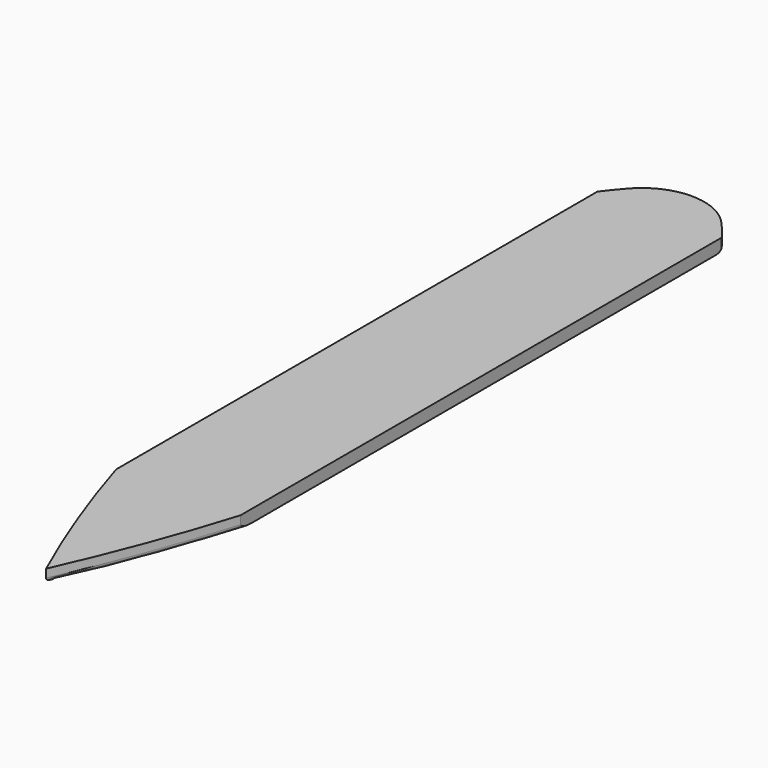
from build123d import *

# Parameters (mm, degrees)
F1_DEPTH = 15
F2_R     = 75
F3_R     = 5
F4_R     = 5


with BuildPart() as f1:
    # F0 (on Top) → F1 (new body)
    with BuildSketch(Plane.XY):
        with BuildLine():
            ThreePointArc((75, 425), (40.1650429449, 465.165042945), (0, 500))
            ThreePointArc((0, 500), (-40.1650429449, 465.165042945), (-75, 425))
            Line((-75, 425), (-75, -300.6246098625))
            ThreePointArc((-75, -300.6246098625), (-40.6105882367, -401.4824298779), (0, -500))
            ThreePointArc((0, -500), (40.6105882367, -401.4824298779), (75, -300.6246098625))
            Line((75, -300.6246098625), (75, 425))
        make_face()
    extrude(amount=F1_DEPTH)

    # F2
    f2_edges = [f1.edges().sort_by_distance(p)[0] for p in [
        (0, 500, 7.5),
    ]]
    fillet(f2_edges, radius=F2_R)

    # F3
    f3_edges = [f1.edges().sort_by_distance(p)[0] for p in [
        (0, 473.431348, 0),
    ]]
    fillet(f3_edges, radius=F3_R)

    # F4
    f4_edges = [f1.edges().sort_by_distance(p)[0] for p in [
        (-40.610588, -401.48243, 0),
        (40.610588, -401.48243, 0),
    ]]
    fillet(f4_edges, radius=F4_R)


solid = f1.part
